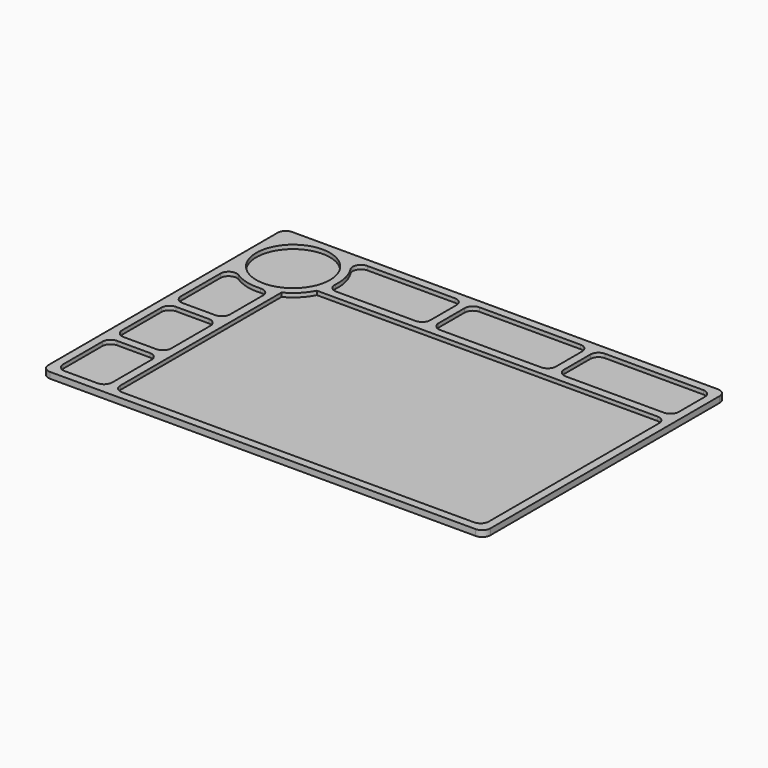
from build123d import *

# Parameters (mm, degrees)
F0_W     = 30
F0_H     = 40
F0_R     = 22.5
F0_W_2   = 70
F0_H_2   = 30
F1_DEPTH = 3.7
F2_DEPTH = 1.3
F3_R     = 5


with BuildPart() as f1:
    # F0 (on Top) → F1 (new body)
    with BuildSketch(Plane.XY):
        with BuildLine():
            Line((129.123384, 121.491298), (-130.876616, 121.491298))
            ThreePointArc((-130.876616, 121.491298), (-134.41215, 120.026832), (-135.876616, 116.491298))
            Line((-135.876616, 116.491298), (-135.876616, -58.508702))
            ThreePointArc((-135.876616, -58.508702), (-134.41215, -62.044236), (-130.876616, -63.508702))
            Line((-130.876616, -63.508702), (129.123384, -63.508702))
            ThreePointArc((129.123384, -63.508702), (132.658918, -62.044236), (134.123384, -58.508702))
            Line((134.123384, -58.508702), (134.123384, 116.491298))
            ThreePointArc((134.123384, 116.491298), (132.658918, 120.026832), (129.123384, 121.491298))
        make_face()
        with Locations((-115.876616, -38.508702)):
            Rectangle(F0_W, F0_H, mode=Mode.SUBTRACT)
        with Locations((-115.876616, 6.491298)):
            Rectangle(F0_W, F0_H, mode=Mode.SUBTRACT)
        with BuildLine():
            ThreePointArc((-95.876616, 69.4964), (-88.93118, 74.545861), (-83.881719, 81.491298))
            Line((-83.881719, 81.491298), (129.123384, 81.491298))
            Line((129.123384, 81.491298), (129.123384, -58.508702))
            Line((129.123384, -58.508702), (-95.876616, -58.508702))
            Line((-95.876616, -58.508702), (-95.876616, 69.4964))
        make_face(mode=Mode.SUBTRACT)
        with BuildLine():
            Line((-130.876616, 31.491298), (-130.876616, 78.179909))
            ThreePointArc((-130.876616, 78.179909), (-117.573626, 68.074797), (-100.876616, 67.533784))
            Line((-100.876616, 67.533784), (-100.876616, 31.491298))
            Line((-100.876616, 31.491298), (-130.876616, 31.491298))
        make_face(mode=Mode.SUBTRACT)
        with Locations((-108.376616, 93.991298)):
            Circle(F0_R, mode=Mode.SUBTRACT)
        with BuildLine():
            Line((-23.623535, 86.491298), (-81.919103, 86.491298))
            ThreePointArc((-81.919103, 86.491298), (-82.460116, 103.188308), (-92.565228, 116.491298))
            Line((-92.565228, 116.491298), (-23.623535, 116.491298))
            Line((-23.623535, 116.491298), (-22.565228, 116.491298))
            Line((-22.565228, 116.491298), (-22.565228, 86.491298))
            Line((-22.565228, 86.491298), (-23.623535, 86.491298))
        make_face(mode=Mode.SUBTRACT)
        Polygon((54.123384, 86.491298), (12.149697, 86.491298), (-17.565228, 86.491298), (-17.565228, 116.491298), (54.123384, 116.491298), align=None, mode=Mode.SUBTRACT)
        with Locations((94.123384, 101.491298)):
            Rectangle(F0_W_2, F0_H_2, mode=Mode.SUBTRACT)
    extrude(amount=F1_DEPTH)

    # F0 (on Top) → F2 (join)
    with BuildSketch(Plane.XY):
        with BuildLine():
            Line((129.123384, 121.491298), (-130.876616, 121.491298))
            ThreePointArc((-130.876616, 121.491298), (-134.41215, 120.026832), (-135.876616, 116.491298))
            Line((-135.876616, 116.491298), (-135.876616, -58.508702))
            ThreePointArc((-135.876616, -58.508702), (-134.41215, -62.044236), (-130.876616, -63.508702))
            Line((-130.876616, -63.508702), (129.123384, -63.508702))
            ThreePointArc((129.123384, -63.508702), (132.658918, -62.044236), (134.123384, -58.508702))
            Line((134.123384, -58.508702), (134.123384, 116.491298))
            ThreePointArc((134.123384, 116.491298), (132.658918, 120.026832), (129.123384, 121.491298))
        make_face()
        with Locations((-115.876616, -38.508702)):
            Rectangle(F0_W, F0_H, mode=Mode.SUBTRACT)
        with Locations((-115.876616, 6.491298)):
            Rectangle(F0_W, F0_H, mode=Mode.SUBTRACT)
        with BuildLine():
            ThreePointArc((-95.876616, 69.4964), (-88.93118, 74.545861), (-83.881719, 81.491298))
            Line((-83.881719, 81.491298), (129.123384, 81.491298))
            Line((129.123384, 81.491298), (129.123384, -58.508702))
            Line((129.123384, -58.508702), (-95.876616, -58.508702))
            Line((-95.876616, -58.508702), (-95.876616, 69.4964))
        make_face(mode=Mode.SUBTRACT)
        with BuildLine():
            Line((-130.876616, 31.491298), (-130.876616, 78.179909))
            ThreePointArc((-130.876616, 78.179909), (-117.573626, 68.074797), (-100.876616, 67.533784))
            Line((-100.876616, 67.533784), (-100.876616, 31.491298))
            Line((-100.876616, 31.491298), (-130.876616, 31.491298))
        make_face(mode=Mode.SUBTRACT)
        with Locations((-108.376616, 93.991298)):
            Circle(F0_R, mode=Mode.SUBTRACT)
        with BuildLine():
            Line((-23.623535, 86.491298), (-81.919103, 86.491298))
            ThreePointArc((-81.919103, 86.491298), (-82.460116, 103.188308), (-92.565228, 116.491298))
            Line((-92.565228, 116.491298), (-23.623535, 116.491298))
            Line((-23.623535, 116.491298), (-22.565228, 116.491298))
            Line((-22.565228, 116.491298), (-22.565228, 86.491298))
            Line((-22.565228, 86.491298), (-23.623535, 86.491298))
        make_face(mode=Mode.SUBTRACT)
        Polygon((54.123384, 86.491298), (12.149697, 86.491298), (-17.565228, 86.491298), (-17.565228, 116.491298), (54.123384, 116.491298), align=None, mode=Mode.SUBTRACT)
        with Locations((94.123384, 101.491298)):
            Rectangle(F0_W_2, F0_H_2, mode=Mode.SUBTRACT)
        with BuildLine():
            Line((129.123384, 81.491298), (-83.881719, 81.491298))
            ThreePointArc((-83.881719, 81.491298), (-88.93118, 74.545861), (-95.876616, 69.4964))
            Line((-95.876616, 69.4964), (-95.876616, -58.508702))
            Line((-95.876616, -58.508702), (129.123384, -58.508702))
            Line((129.123384, -58.508702), (129.123384, 81.491298))
        make_face()
        with Locations((94.123384, 101.491298)):
            Rectangle(F0_W_2, F0_H_2)
        Polygon((-17.565228, 86.491298), (12.149697, 86.491298), (54.123384, 86.491298), (54.123384, 116.491298), (-17.565228, 116.491298), align=None)
        with BuildLine():
            ThreePointArc((-92.565228, 116.491298), (-82.460116, 103.188308), (-81.919103, 86.491298))
            Line((-81.919103, 86.491298), (-23.623535, 86.491298))
            Line((-23.623535, 86.491298), (-22.565228, 86.491298))
            Line((-22.565228, 86.491298), (-22.565228, 116.491298))
            Line((-22.565228, 116.491298), (-23.623535, 116.491298))
            Line((-23.623535, 116.491298), (-92.565228, 116.491298))
        make_face()
        with Locations((-108.376616, 93.991298)):
            Circle(F0_R)
        with BuildLine():
            ThreePointArc((-100.876616, 67.533784), (-117.573626, 68.074797), (-130.876616, 78.179909))
            Line((-130.876616, 78.179909), (-130.876616, 31.491298))
            Line((-130.876616, 31.491298), (-100.876616, 31.491298))
            Line((-100.876616, 31.491298), (-100.876616, 67.533784))
        make_face()
        with Locations((-115.876616, 6.491298)):
            Rectangle(F0_W, F0_H)
        with Locations((-115.876616, -38.508702)):
            Rectangle(F0_W, F0_H)
    extrude(amount=F2_DEPTH)

    # F3
    f3_edges = [f1.edges().sort_by_distance(p)[0] for p in [
        (59.123384, 116.491298, 2.5),
        (129.123384, 81.491298, 2.5),
        (129.123384, 116.491298, 2.5),
        (129.123384, 86.491298, 2.5),
        (59.123384, 86.491298, 2.5),
        (54.123384, 86.491298, 2.5),
        (54.123384, 116.491298, 2.5),
        (-17.565228, 86.491298, 2.5),
        (-81.919103, 86.491298, 2.5),
        (-130.876616, -13.508702, 2.5),
        (-100.876616, 26.491298, 2.5),
        (-100.876616, 67.533784, 2.5),
        (-100.876616, -18.508702, 2.5),
        (-130.876616, 26.491298, 2.5),
        (-130.876616, 78.179909, 2.5),
        (-92.565228, 116.491298, 2.5),
        (-17.565228, 116.491298, 2.5),
        (-130.876616, -58.508702, 2.5),
        (-130.876616, 31.491298, 2.5),
        (-100.876616, -13.508702, 2.5),
        (-100.876616, 31.491298, 2.5),
        (-100.876616, -58.508702, 2.5),
        (-95.876616, -58.508702, 2.5),
        (-130.876616, -18.508702, 2.5),
        (129.123384, -58.508702, 2.5),
        (-22.565228, 86.491298, 2.5),
        (-22.565228, 116.491298, 2.5),
    ]]
    fillet(f3_edges, radius=F3_R)


solid = f1.part
